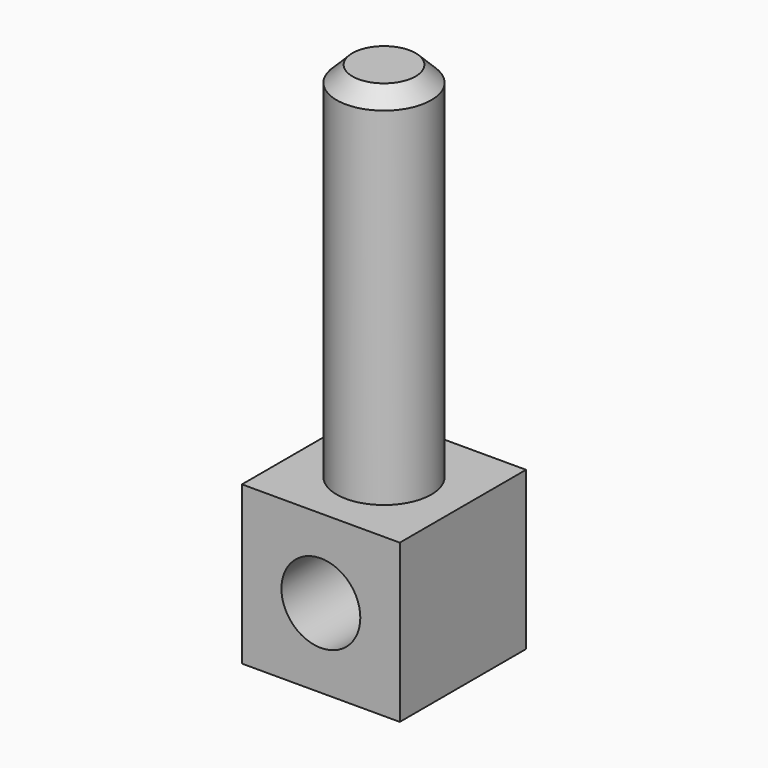
from build123d import *

# Parameters (mm, degrees)
F0_W     = 10
F0_H     = 10
F0_R     = 3
F1_DEPTH = 10
F2_DEPTH = 33
F3_SIZE  = 1
F4_R     = 2.5
F5_DEPTH = 25


with BuildPart() as f1:
    # F0 (on Top) → F1 (new body)
    with BuildSketch(Plane.XY):
        Rectangle(F0_W, F0_H)
        Circle(F0_R, mode=Mode.SUBTRACT)
    extrude(amount=F1_DEPTH)

    # F0 (on Top) → F2 (join)
    with BuildSketch(Plane.XY):
        Circle(F0_R)
    extrude(amount=F2_DEPTH)

    # F3
    f3_edges = [f1.edges().sort_by_distance(p)[0] for p in [
        (-3, 0, 33),
    ]]
    chamfer(f3_edges, length=F3_SIZE)

    # F4 (on face) → F5 (cut)
    with BuildSketch(Plane.XZ.offset(5)):
        with Locations((0, 5)):
            Circle(F4_R)
    extrude(amount=-F5_DEPTH, mode=Mode.SUBTRACT)


solid = f1.part
